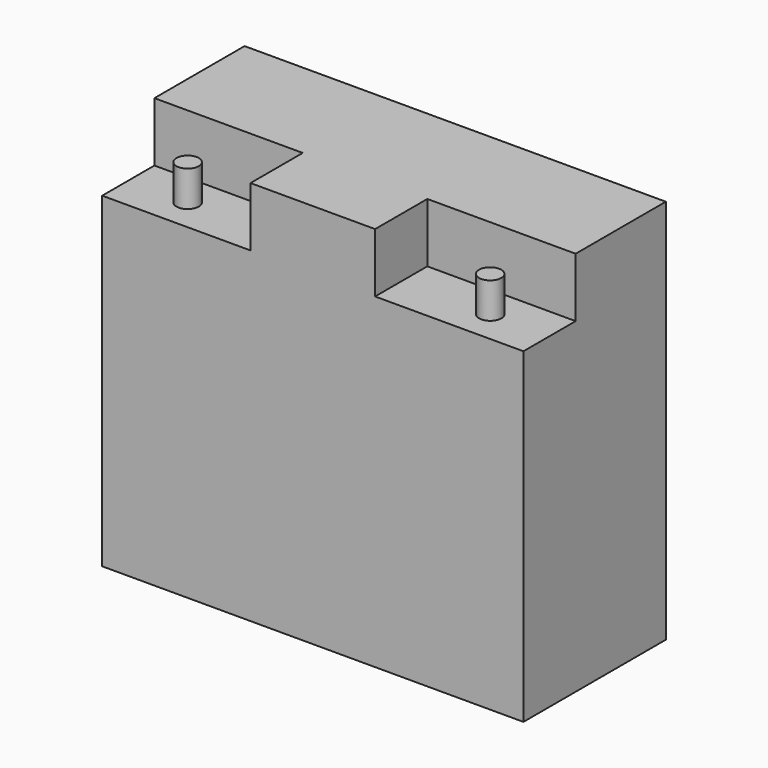
from build123d import *

# Parameters (mm, degrees)
F0_W      = 180.34
F0_H      = 165.1
F1_DEPTH  = 76.2
F2_W      = 63.5
F2_H      = 27.94
F3_DEPTH  = 25.4
F5_W      = 63.5
F5_H      = 27.94
F6_DEPTH  = 25.4
F7_R      = 4.7625
F8_DEPTH  = 15.24
F9_R      = 4.7625
F10_DEPTH = 15.24


with BuildPart() as f1:
    # F0 (on Front) → F1 (new body)
    with BuildSketch(Plane.XZ):
        with Locations((90.17, 82.55)):
            Rectangle(F0_W, F0_H)
    extrude(amount=F1_DEPTH)

    # F2 (on face) → F3 (cut)
    with BuildSketch(Plane.XY.offset(165.1)):
        with Locations((31.75, -62.23)):
            Rectangle(F2_W, F2_H)
    extrude(amount=-F3_DEPTH, mode=Mode.SUBTRACT)

    # F5 (on face) → F6 (cut)
    with BuildSketch(Plane.XY.offset(165.1)):
        with Locations((148.59, -62.23)):
            Rectangle(F5_W, F5_H)
    extrude(amount=-F6_DEPTH, mode=Mode.SUBTRACT)

    # F7 (on face) → F8 (join)
    with BuildSketch(Plane.XY.offset(139.7)):
        with Locations((25.4, -62.23)):
            Circle(F7_R)
    extrude(amount=F8_DEPTH)

    # F9 (on face) → F10 (join)
    with BuildSketch(Plane.XY.offset(139.7)):
        with Locations((154.94, -62.23)):
            Circle(F9_R)
    extrude(amount=F10_DEPTH)


solid = f1.part
